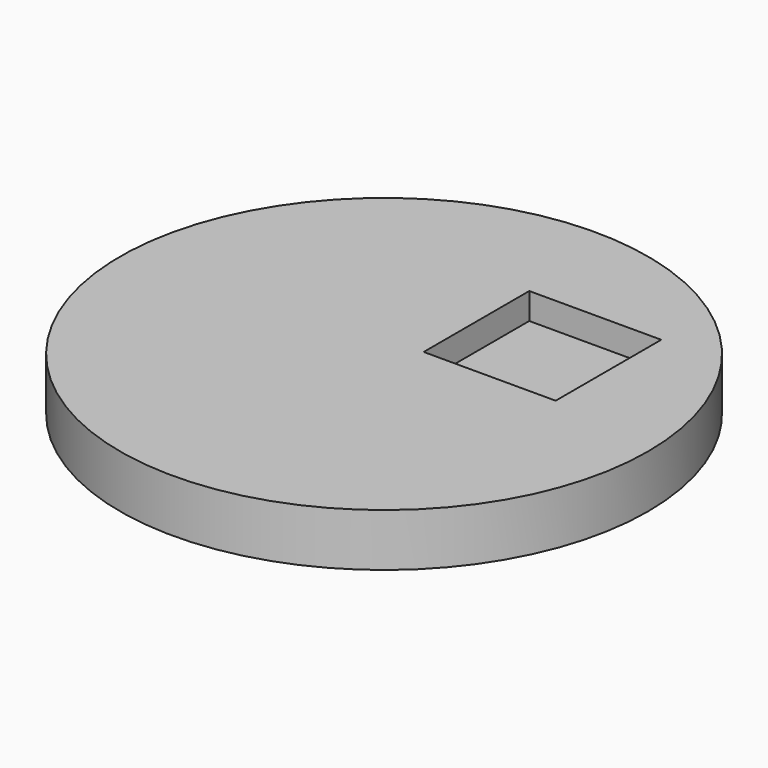
from build123d import *

# Parameters (mm, degrees)
F0_R     = 30
F1_DEPTH = 6
F2_W     = 15
F2_H     = 15
F3_DEPTH = 3


with BuildPart() as f1:
    # F0 (on Top) → F1 (new body)
    with BuildSketch(Plane.XY):
        Circle(F0_R)
    extrude(amount=F1_DEPTH)

    # F2 (on face) → F3 (cut)
    with BuildSketch(Plane.XY.offset(6)):
        with Locations((10, 10)):
            Rectangle(F2_W, F2_H)
    extrude(amount=-F3_DEPTH, mode=Mode.SUBTRACT)


solid = f1.part
